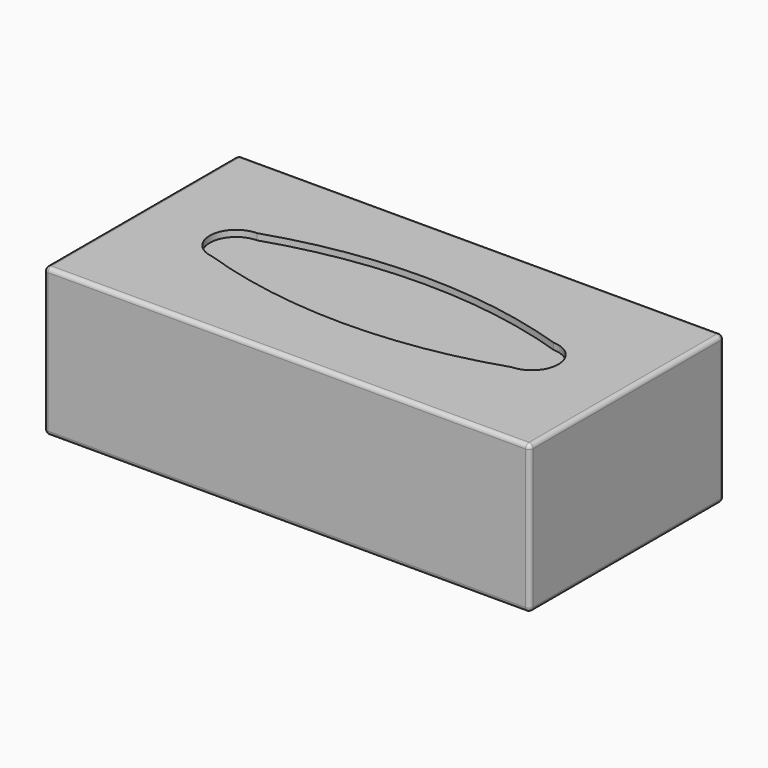
from build123d import *

# Parameters (mm, degrees)
F0_W     = 230
F0_H     = 115
F1_DEPTH = 70
F2_R     = 2
F4_DEPTH = 3


with BuildPart() as f1:
    # F0 (on Top) → F1 (new body)
    with BuildSketch(Plane.XY):
        with Locations((115, 57.5)):
            Rectangle(F0_W, F0_H)
    extrude(amount=F1_DEPTH)

    # F2
    f2_edges = [f1.edges().sort_by_distance(p)[0] for p in [
        (0, 57.5, 70),
        (115, 0, 70),
        (230, 57.5, 70),
        (115, 115, 70),
        (0, 57.5, 0),
        (115, 0, 0),
        (230, 57.5, 0),
        (115, 115, 0),
        (230, 0, 35),
        (230, 115, 35),
        (0, 115, 35),
        (0, 0, 35),
    ]]
    fillet(f2_edges, radius=F2_R)

    # F3 (on face) → F4 (cut)
    with BuildSketch(Plane.XY.offset(70)):
        with BuildLine():
            ThreePointArc((185.3419, 69.995323), (115.162282, 81.286695), (44.981913, 69.999987))
            ThreePointArc((44.981913, 69.999987), (32.520736, 58.219704), (43.545014, 45.084968))
            ThreePointArc((43.545014, 45.084968), (114.480414, 33.514818), (185.42843, 45.007344))
            ThreePointArc((185.42843, 45.007344), (197.499925, 57.543286), (185.3419, 69.995323))
        make_face()
    extrude(amount=-F4_DEPTH, mode=Mode.SUBTRACT)


solid = f1.part
